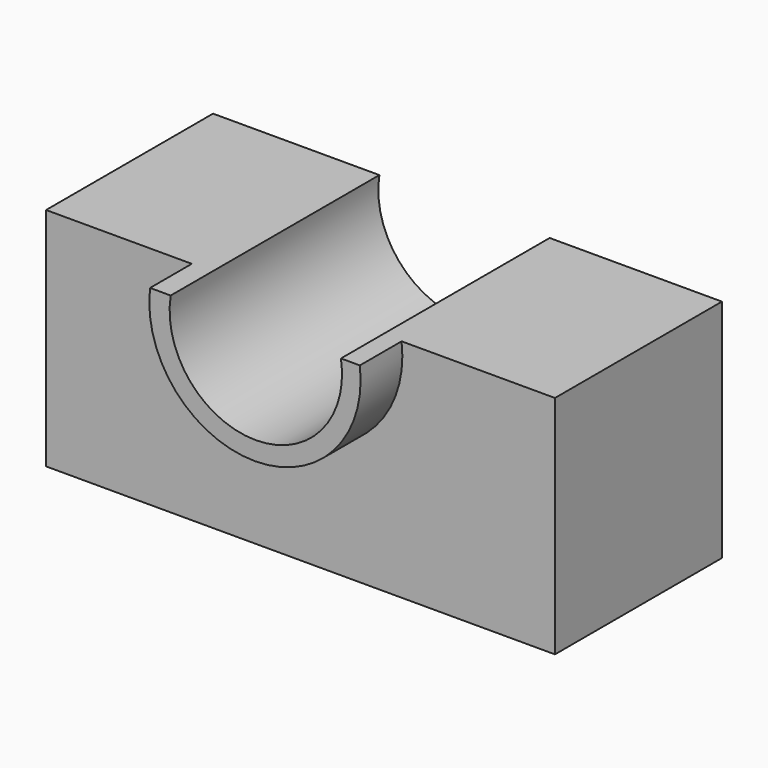
from build123d import *

# Parameters (mm, degrees)
F1_DEPTH = 25.4
F2_R     = 3.02283
F3_DEPTH = 25.4
F5_DEPTH = 6.35


with BuildPart() as f1:
    # F0 (on Front) → F1 (new body)
    with BuildSketch(Plane.XZ):
        with BuildLine():
            Line((-25.424864, 16.508088), (-25.424864, -10.965226))
            Line((-25.424864, -10.965226), (36.510594, -10.965226))
            Line((36.510594, -10.965226), (36.510594, 16.508088))
            Line((36.510594, 16.508088), (19.159023, 16.508088))
            ThreePointArc((19.159023, 16.508088), (5.422366, 0.842331), (-8.314291, 16.508088))
            Line((-8.314291, 16.508088), (-25.424864, 16.508088))
        make_face()
        with BuildLine():
            Line((-5.181369, 16.508088), (-8.314291, 16.508088))
            ThreePointArc((-8.314291, 16.508088), (5.422366, 0.842331), (19.159023, 16.508088))
            Line((19.159023, 16.508088), (15.544111, 16.508088))
            ThreePointArc((15.544111, 16.508088), (5.181371, 4.375351), (-5.181369, 16.508088))
        make_face()
    extrude(amount=F1_DEPTH)

    # F2 (on face) → F3 (join)
    with BuildSketch(Plane.XY.offset(16.508088)):
        with Locations((-15.827941, -12.417181)):
            Circle(F2_R)
    extrude(amount=-F3_DEPTH)

    # F4 (on face) → F5 (join)
    with BuildSketch(Plane.XZ.offset(25.4)):
        with BuildLine():
            ThreePointArc((-7.689733, 16.508088), (5.077277, 2.095446), (17.844288, 16.508088))
            Line((17.844288, 16.508088), (15.544111, 16.508088))
            ThreePointArc((15.544111, 16.508088), (5.181371, 4.375351), (-5.181369, 16.508088))
            Line((-5.181369, 16.508088), (-7.689733, 16.508088))
        make_face()
    extrude(amount=F5_DEPTH)


solid = f1.part
